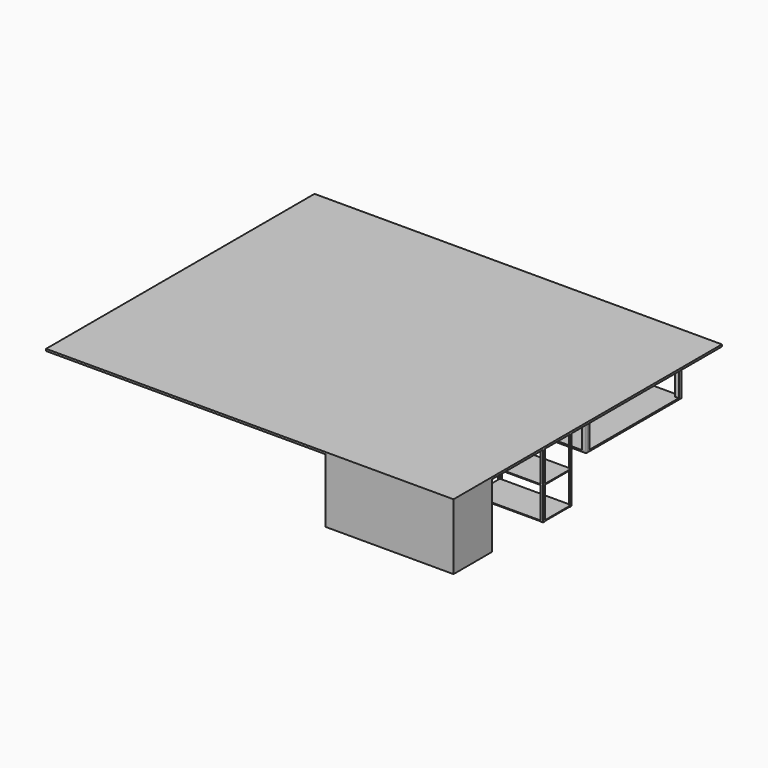
from build123d import *

# Parameters (mm, degrees)
F1_DEPTH  = 800
F2_W      = 892
F2_H      = 442
F3_DEPTH  = 10
F5_W      = 892
F5_H      = 442
F6_DEPTH  = 10
F7_W      = 5100
F7_H      = 4200
F8_DEPTH  = 25
F9_W      = 1600
F9_H      = 600
F10_DEPTH = 800
F12_W     = 780
F12_H     = 1500
F13_DEPTH = 18
F14_W     = 50
F14_H     = 50
F15_DEPTH = 710
F16_R     = 10
F16_2_R   = 10
F16_3_R   = 10
F16_4_R   = 10
F16_5_R   = 10


with BuildPart() as f1:
    # F0 (on Top) → F1 (new body)
    with BuildSketch(Plane.XY):
        Polygon((-421, 225), (-450, 225), (-450, 196), (-446, 196), (-446, 221), (-421, 221), align=None)
    extrude(amount=F1_DEPTH)


with BuildPart() as f1b:
    # F0 (on Top) → F1, piece 2 (new body)
    with BuildSketch(Plane.XY):
        Polygon((-446, -221), (-446, -196), (-450, -196), (-450, -225), (-421, -225), (-421, -221), align=None)
    extrude(amount=F1_DEPTH)


with BuildPart() as f1c:
    # F0 (on Top) → F1, piece 3 (new body)
    with BuildSketch(Plane.XY):
        Polygon((421, -221), (421, -225), (450, -225), (450, -196), (446, -196), (446, -221), align=None)
    extrude(amount=F1_DEPTH)


with BuildPart() as f1d:
    # F0 (on Top) → F1, piece 4 (new body)
    with BuildSketch(Plane.XY):
        Polygon((450, 196), (450, 225), (421, 225), (421, 221), (446, 221), (446, 196), align=None)
    extrude(amount=F1_DEPTH)


with BuildPart() as f3:
    # F2 (on face) → F3 (new body)
    with BuildSketch(Plane(origin=(0, 0, 0), x_dir=(1, 0, 0), z_dir=(0, 0, -1))):
        Rectangle(F2_W, F2_H)
    extrude(amount=-F3_DEPTH)


with BuildPart() as f6:
    # F5 (on offset) → F6 (new body)
    with BuildSketch(Plane(origin=(0, 0, 400), x_dir=(1, 0, 0), z_dir=(0, 0, -1))):
        Rectangle(F5_W, F5_H)
    extrude(amount=-F6_DEPTH)


with BuildPart() as f8:
    # F7 (on face) → F8 (new body)
    with BuildSketch(Plane.XY.offset(800)):
        with Locations((-2100, 475)):
            Rectangle(F7_W, F7_H)
    extrude(amount=F8_DEPTH)

    # F9 (on face) → F10 (join)
    with BuildSketch(Plane(origin=(0, 0, 800), x_dir=(1, 0, 0), z_dir=(0, 0, -1))):
        with Locations((-350, 1325)):
            Rectangle(F9_W, F9_H)
    extrude(amount=F10_DEPTH)


with BuildPart() as f13:
    # F12 (on offset) → F13 (new body)
    with BuildSketch(Plane(origin=(0, 0, 90), x_dir=(1, 0, 0), z_dir=(0, 0, -1))):
        with Locations((-440, -1825)):
            Rectangle(F12_W, F12_H)
    extrude(amount=F13_DEPTH)

    # F16
    f16_edges = [f13.edges().sort_by_distance(p)[0] for p in [
        (-50, 1075, 81),
        (-50, 2575, 81),
        (-830, 2575, 81),
        (-830, 1075, 81),
    ]]
    fillet(f16_edges, radius=F16_R)


with BuildPart() as f15:
    # F14 (on face) → F15 (new body, through all)
    with BuildSketch(Plane.XY.offset(90)):
        with Locations((-805, 1100)):
            Rectangle(F14_W, F14_H)
    extrude(amount=F15_DEPTH)

    # F16#5
    f16_5_edges = [f15.edges().sort_by_distance(p)[0] for p in [
        (-830, 1075, 445),
    ]]
    fillet(f16_5_edges, radius=F16_5_R)


with BuildPart() as f15b:
    # F14 (on face) → F15, piece 2 (new body, through all)
    with BuildSketch(Plane.XY.offset(90)):
        with Locations((-75, 1100)):
            Rectangle(F14_W, F14_H)
    extrude(amount=F15_DEPTH)

    # F16#4
    f16_4_edges = [f15b.edges().sort_by_distance(p)[0] for p in [
        (-50, 1075, 445),
    ]]
    fillet(f16_4_edges, radius=F16_4_R)


with BuildPart() as f15c:
    # F14 (on face) → F15, piece 3 (new body, through all)
    with BuildSketch(Plane.XY.offset(90)):
        with Locations((-75, 2550)):
            Rectangle(F14_W, F14_H)
    extrude(amount=F15_DEPTH)

    # F16#3
    f16_3_edges = [f15c.edges().sort_by_distance(p)[0] for p in [
        (-50, 2575, 445),
    ]]
    fillet(f16_3_edges, radius=F16_3_R)


with BuildPart() as f15d:
    # F14 (on face) → F15, piece 4 (new body, through all)
    with BuildSketch(Plane.XY.offset(90)):
        with Locations((-805, 2550)):
            Rectangle(F14_W, F14_H)
    extrude(amount=F15_DEPTH)

    # F16#2
    f16_2_edges = [f15d.edges().sort_by_distance(p)[0] for p in [
        (-830, 2575, 445),
    ]]
    fillet(f16_2_edges, radius=F16_2_R)


solid = Compound([f1.part, f1b.part, f1c.part, f1d.part, f3.part, f6.part, f8.part, f13.part, f15.part, f15b.part, f15c.part, f15d.part])
